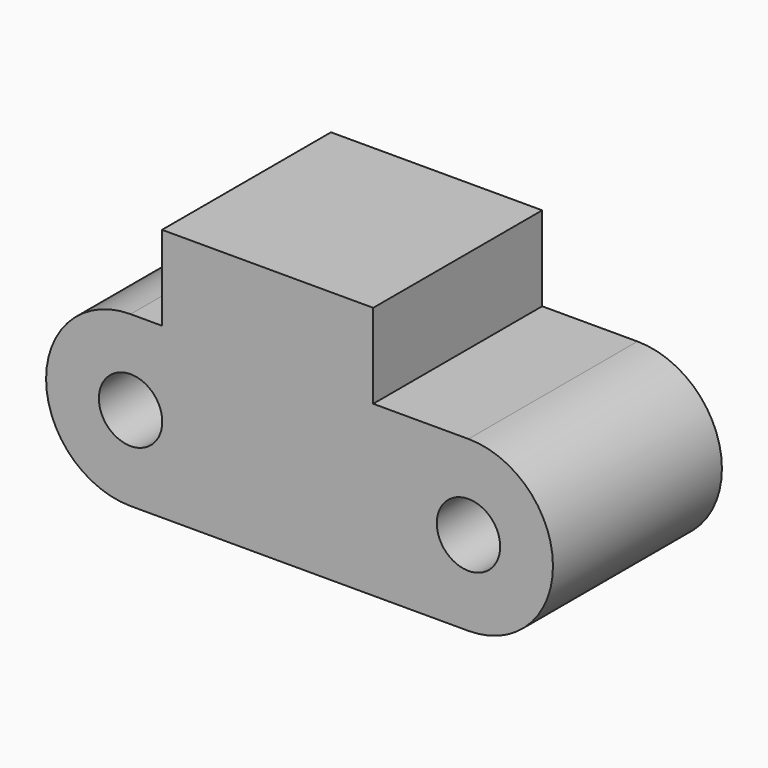
from build123d import *

# Parameters (mm, degrees)
F0_R     = 3
F1_DEPTH = 20


with BuildPart() as f1:
    # F0 (on Front) → F1 (new body)
    with BuildSketch(Plane.XZ):
        with BuildLine():
            Line((-13.020127, 8), (-16, 8))
            ThreePointArc((-16, 8), (-24, 0), (-16, -8))
            Line((-16, -8), (16, -8))
            ThreePointArc((16, -8), (24, 0), (16, 8))
            Line((16, 8), (6.979873, 8))
            Line((6.979873, 8), (6.979873, 16))
            Line((6.979873, 16), (-13.020127, 16))
            Line((-13.020127, 16), (-13.020127, 8))
        make_face()
        with Locations((-16, 0)):
            Circle(F0_R, mode=Mode.SUBTRACT)
        with Locations((16, 0)):
            Circle(F0_R, mode=Mode.SUBTRACT)
    extrude(amount=F1_DEPTH)


solid = f1.part
